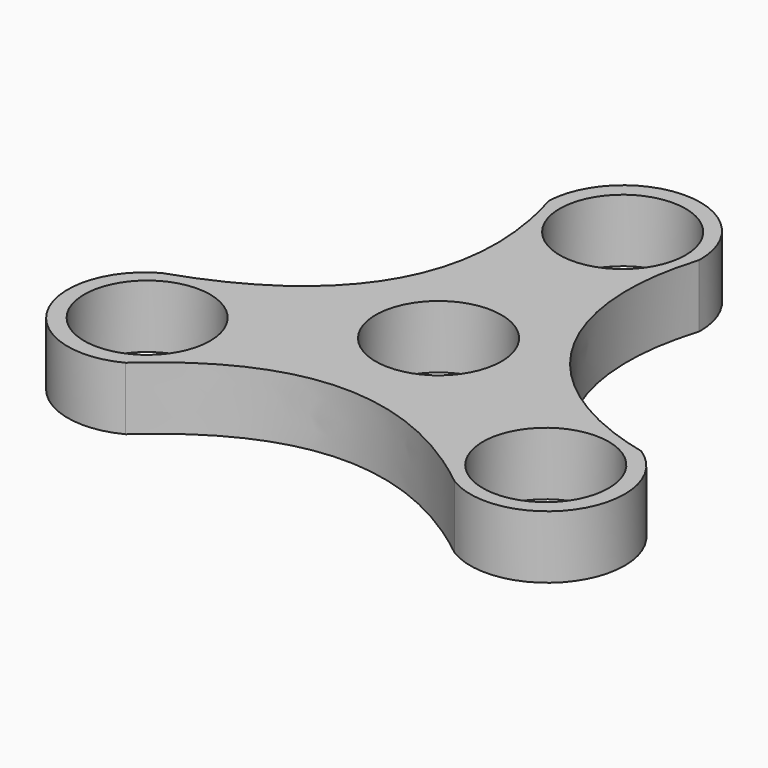
from build123d import *

# Parameters (mm, degrees)
F0_R     = 12.7
F1_DEPTH = 12.7


with BuildPart() as f1:
    # F0 (on Top) → F1 (new body)
    with BuildSketch(Plane.XY):
        with BuildLine():
            add(Edge.make_bspline(
                [(15.421774, 46.44521), (7.433572, 21.404086), (19.391736, -3.206508), (48.988398, -10.123311)],
                knots=[0, 0, 0, 0, 65.777775, 65.777775, 65.777775, 65.777775], degree=3))
            ThreePointArc((15.421774, 46.44521), (0.361521, 62.342811), (-15.727155, 47.486853))
            add(Edge.make_bspline(
                [(-47.933618, -9.866957), (-18.17021, 0), (-7.479798, 20.491023), (-15.727155, 47.486853)],
                knots=[0, 0, 0, 0, 65.777775, 65.777775, 65.777775, 65.777775], degree=3))
            ThreePointArc((-47.933618, -9.866957), (-54.171218, -30.858319), (-33.261243, -37.363542))
            add(Edge.make_bspline(
                [(-33.261243, -37.363542), (-10.523342, -16.64022), (11.085825, -19.379411), (32.511844, -36.578253)],
                knots=[0, 0, 0, 0, 65.777775, 65.777775, 65.777775, 65.777775], degree=3))
            ThreePointArc((32.511844, -36.578253), (53.809698, -31.484491), (48.988398, -10.123311))
        make_face()
        with Locations((-40.222731, -23.222605)):
            Circle(F0_R, mode=Mode.SUBTRACT)
        Circle(F0_R, mode=Mode.SUBTRACT)
        with Locations((40.222731, -23.222605)):
            Circle(F0_R, mode=Mode.SUBTRACT)
        with Locations((0, 46.44521)):
            Circle(F0_R, mode=Mode.SUBTRACT)
    extrude(amount=F1_DEPTH)


solid = f1.part
